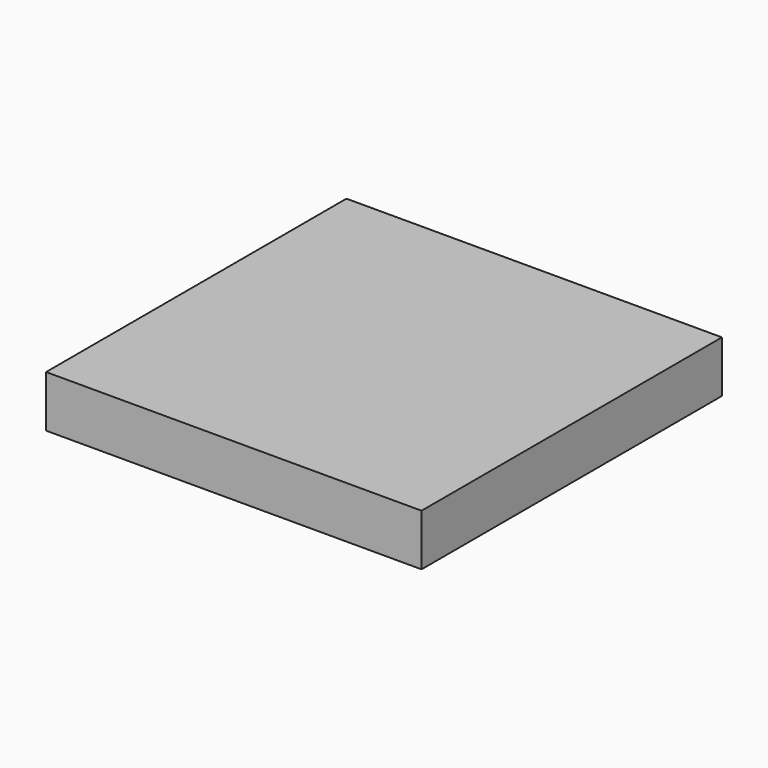
from build123d import *

# Parameters (mm, degrees)
BOX_W     = 4
BOX_H     = 4
BOX_DEPTH = 0.55


with BuildPart() as part:
    # Box → Box (new body)
    with BuildSketch(Plane.XY):
        with Locations((2, 2)):
            Rectangle(BOX_W, BOX_H)
    extrude(amount=BOX_DEPTH)


solid = part.part
